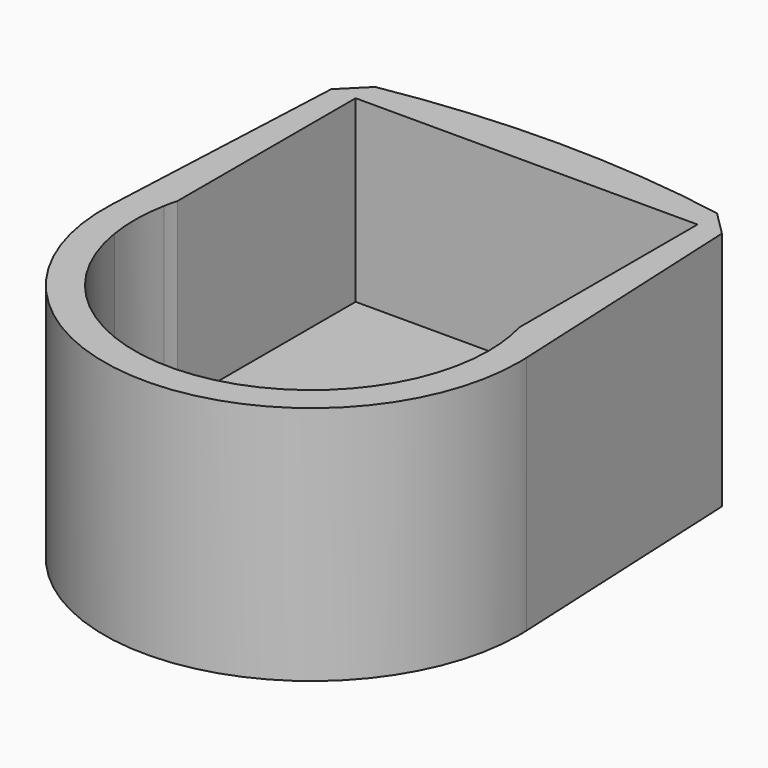
from build123d import *

# Parameters (mm, degrees)
F1_DEPTH = 3.175
F2_DEPTH = 9.3218


with BuildPart() as f1:
    # F0 (on Top) → F1 (new body)
    with BuildSketch(Plane.XY):
        with BuildLine():
            ThreePointArc((-9.0909293254, -1.4605), (-9.2065972542, 0.1289311761), (-9.0464659398, 1.7145))
            ThreePointArc((-9.0464659398, 1.7145), (-8.9747244461, 2.0572742564), (-8.89, 2.3970724332))
            Line((-8.89, 2.3970724332), (-8.89, 6.1237182332))
            ThreePointArc((-8.89, 6.1237182332), (-10.2308541629, 3.4440743454), (-10.7834571202, 0.4990766843))
            ThreePointArc((-10.7834571202, 0.4990766843), (-0.2496050755, -10.7921138942), (10.795, 0))
            ThreePointArc((10.795, 0), (10.792113895, 0.2496050431), (10.7834571232, 0.4990766196))
            ThreePointArc((10.7834571232, 0.4990766196), (10.2308541733, 3.4440743147), (8.89, 6.1237182332))
            Line((8.89, 6.1237182332), (8.89, 2.3970724332))
            ThreePointArc((8.89, 2.3970724332), (9.1277798848, 1.2090039806), (9.2075, 0))
            ThreePointArc((9.2075, 0), (0.7325723466, -9.1783110651), (-9.0909293254, -1.4605))
        make_face()
        with BuildLine():
            ThreePointArc((-10.7834571202, 0.4990766843), (-10.2308541629, 3.4440743454), (-8.89, 6.1237182332))
            Line((-8.89, 6.1237182332), (-8.89, 13.97))
            Line((-8.89, 13.97), (-10.16, 13.97))
            Line((-10.16, 13.97), (-10.7834571202, 0.4990766843))
        make_face()
        with BuildLine():
            Line((8.89, 13.97), (8.89, 6.1237182332))
            ThreePointArc((8.89, 6.1237182332), (10.2308541733, 3.4440743147), (10.7834571232, 0.4990766196))
            Line((10.7834571232, 0.4990766196), (10.16, 13.97))
            Line((10.16, 13.97), (8.89, 13.97))
        make_face()
        with BuildLine():
            Line((-8.89, 15.24), (-8.89, 13.97))
            Line((-8.89, 13.97), (0, 13.97))
            Line((0, 13.97), (8.89, 13.97))
            Line((8.89, 13.97), (8.89, 15.24))
            ThreePointArc((8.89, 15.24), (0, 16.0239235845), (-8.89, 15.24))
        make_face()
        Polygon((-10.16, 13.97), (-8.89, 13.97), (-8.89, 15.24), align=None)
        Polygon((8.89, 15.24), (8.89, 13.97), (10.16, 13.97), align=None)
        with BuildLine():
            Line((-8.89, 13.97), (-8.89, 6.1237182332))
            ThreePointArc((-8.89, 6.1237182332), (0, 10.795), (8.89, 6.1237182332))
            Line((8.89, 6.1237182332), (8.89, 13.97))
            Line((8.89, 13.97), (0, 13.97))
            Line((0, 13.97), (-8.89, 13.97))
        make_face()
        with BuildLine():
            Line((-8.89, 6.1237182332), (-8.89, 2.3970724332))
            ThreePointArc((-8.89, 2.3970724332), (0, 9.2075), (8.89, 2.3970724332))
            Line((8.89, 2.3970724332), (8.89, 6.1237182332))
            ThreePointArc((8.89, 6.1237182332), (0, 10.795), (-8.89, 6.1237182332))
        make_face()
        with BuildLine():
            ThreePointArc((8.89, 2.3970724332), (0, 9.2075), (-8.89, 2.3970724332))
            Line((-8.89, 2.3970724332), (-8.89, 1.7145))
            Line((-8.89, 1.7145), (-6.35, 1.7145))
            Line((-6.35, 1.7145), (-6.35, 0))
            Line((-6.35, 0), (-3.4925, 0))
            ThreePointArc((-3.4925, 0), (0, 3.4925), (3.4925, 0))
            Line((3.4925, 0), (8.89, 0))
            Line((8.89, 0), (8.89, 2.3970724332))
        make_face()
        with BuildLine():
            Line((-6.35, -1.4605), (-9.0909293254, -1.4605))
            ThreePointArc((-9.0909293254, -1.4605), (0.7325723466, -9.1783110651), (9.2075, 0))
            ThreePointArc((9.2075, 0), (9.1277798848, 1.2090039806), (8.89, 2.3970724332))
            Line((8.89, 2.3970724332), (8.89, 0))
            Line((8.89, 0), (3.4925, 0))
            ThreePointArc((3.4925, 0), (0, -3.4925), (-3.4925, 0))
            Line((-3.4925, 0), (-6.35, 0))
            Line((-6.35, 0), (-6.35, -1.4605))
        make_face()
        with BuildLine():
            ThreePointArc((-8.89, 2.3970724332), (-8.9747244461, 2.0572742564), (-9.0464659398, 1.7145))
            Line((-9.0464659398, 1.7145), (-8.89, 1.7145))
            Line((-8.89, 1.7145), (-8.89, 2.3970724332))
        make_face()
    extrude(amount=-F1_DEPTH)

    # F0 (on Top) → F2 (join)
    with BuildSketch(Plane.XY):
        with BuildLine():
            ThreePointArc((-10.7834571202, 0.4990766843), (-10.2308541629, 3.4440743454), (-8.89, 6.1237182332))
            Line((-8.89, 6.1237182332), (-8.89, 13.97))
            Line((-8.89, 13.97), (-10.16, 13.97))
            Line((-10.16, 13.97), (-10.7834571202, 0.4990766843))
        make_face()
        with BuildLine():
            ThreePointArc((-9.0909293254, -1.4605), (-9.2065972542, 0.1289311761), (-9.0464659398, 1.7145))
            ThreePointArc((-9.0464659398, 1.7145), (-8.9747244461, 2.0572742564), (-8.89, 2.3970724332))
            Line((-8.89, 2.3970724332), (-8.89, 6.1237182332))
            ThreePointArc((-8.89, 6.1237182332), (-10.2308541629, 3.4440743454), (-10.7834571202, 0.4990766843))
            ThreePointArc((-10.7834571202, 0.4990766843), (-0.2496050755, -10.7921138942), (10.795, 0))
            ThreePointArc((10.795, 0), (10.792113895, 0.2496050431), (10.7834571232, 0.4990766196))
            ThreePointArc((10.7834571232, 0.4990766196), (10.2308541733, 3.4440743147), (8.89, 6.1237182332))
            Line((8.89, 6.1237182332), (8.89, 2.3970724332))
            ThreePointArc((8.89, 2.3970724332), (9.1277798848, 1.2090039806), (9.2075, 0))
            ThreePointArc((9.2075, 0), (0.7325723466, -9.1783110651), (-9.0909293254, -1.4605))
        make_face()
        with BuildLine():
            Line((8.89, 13.97), (8.89, 6.1237182332))
            ThreePointArc((8.89, 6.1237182332), (10.2308541733, 3.4440743147), (10.7834571232, 0.4990766196))
            Line((10.7834571232, 0.4990766196), (10.16, 13.97))
            Line((10.16, 13.97), (8.89, 13.97))
        make_face()
        with BuildLine():
            Line((-8.89, 15.24), (-8.89, 13.97))
            Line((-8.89, 13.97), (0, 13.97))
            Line((0, 13.97), (8.89, 13.97))
            Line((8.89, 13.97), (8.89, 15.24))
            ThreePointArc((8.89, 15.24), (0, 16.0239235845), (-8.89, 15.24))
        make_face()
        with BuildLine():
            Line((-8.89, 15.24), (-8.89, 13.97))
            Line((-8.89, 13.97), (0, 13.97))
            Line((0, 13.97), (8.89, 13.97))
            Line((8.89, 13.97), (8.89, 15.24))
            ThreePointArc((8.89, 15.24), (0, 16.0239235845), (-8.89, 15.24))
        make_face()
        with BuildLine():
            Line((-8.89, 15.24), (-8.89, 13.97))
            Line((-8.89, 13.97), (0, 13.97))
            Line((0, 13.97), (8.89, 13.97))
            Line((8.89, 13.97), (8.89, 15.24))
            ThreePointArc((8.89, 15.24), (0, 16.0239235845), (-8.89, 15.24))
        make_face()
        Polygon((-10.16, 13.97), (-8.89, 13.97), (-8.89, 15.24), align=None)
        Polygon((8.89, 15.24), (8.89, 13.97), (10.16, 13.97), align=None)
    extrude(amount=F2_DEPTH)


solid = f1.part
